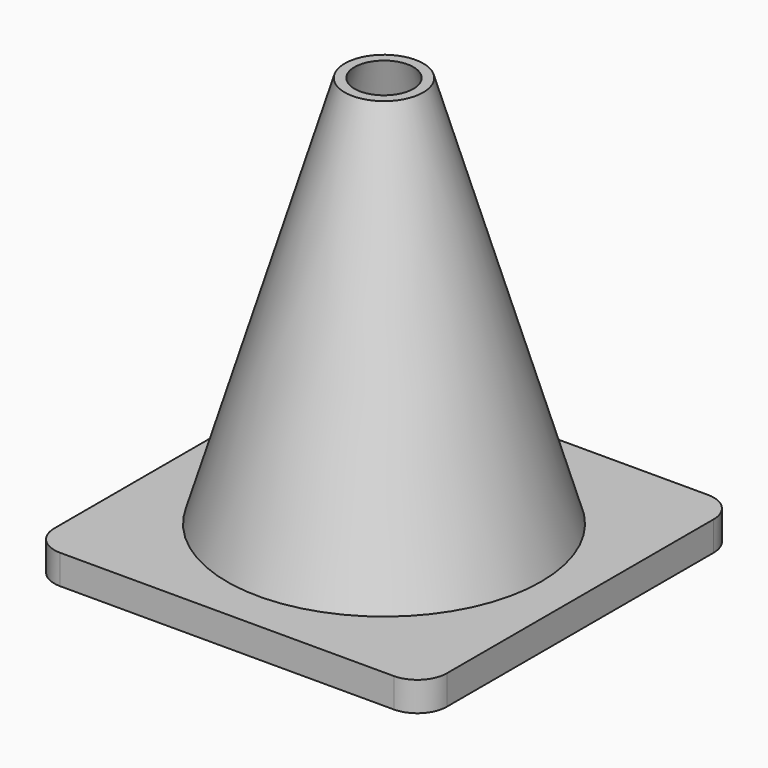
from build123d import *

# Parameters (mm, degrees)
BOX_W     = 40
BOX_H     = 40
BOX_DEPTH = 3
FILLET_R  = 3


with BuildPart() as cone001:
    # Cone001 → Cone001 (revolve)
    with BuildSketch(Plane(origin=(20, 20, 3), x_dir=(1, 0, 0), z_dir=(0, -1, 0))):
        Polygon((0, 0), (15, 0), (3, 40), (0, 40), align=None)
    revolve(axis=Axis((20, 20, 3), (0, 0, 1)))


with BuildPart() as cut:
    # Cone → Cone (revolve)
    with BuildSketch(Plane(origin=(20, 20, 3), x_dir=(1, 0, 0), z_dir=(0, -1, 0))):
        Polygon((0, 0), (16, 0), (4, 40), (0, 40), align=None)
    revolve(axis=Axis((20, 20, 3), (0, 0, 1)))

    # Cut: cut Cone001
    add(cone001.part, mode=Mode.SUBTRACT)


with BuildPart() as obj1:
    # Box → Box (new body)
    with BuildSketch(Plane.XY):
        with Locations((20, 20)):
            Rectangle(BOX_W, BOX_H)
    extrude(amount=BOX_DEPTH)

    # Fillet
    fillet_edges = [obj1.edges().sort_by_distance(p)[0] for p in [
        (0, 0, 1.5),
        (0, 40, 1.5),
        (40, 0, 1.5),
        (40, 40, 1.5),
    ]]
    fillet(fillet_edges, radius=FILLET_R)

    # Fusion: union Cut
    add(cut.part)


solid = obj1.part
